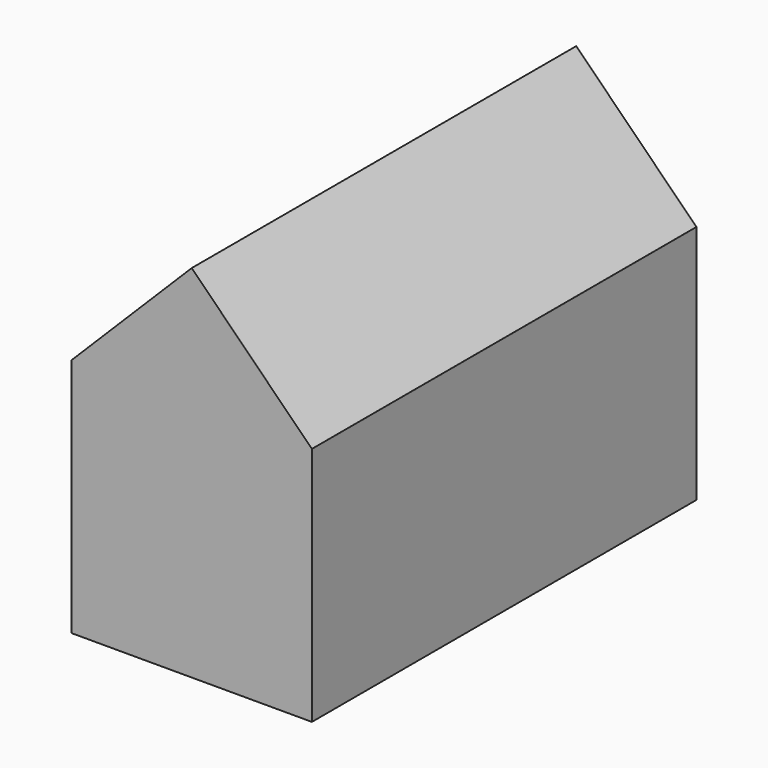
from build123d import *

# Parameters (mm, degrees)
BOX_W                  = 10
BOX_H                  = 20
BOX_DEPTH              = 10
BOX001_W               = 7.07
BOX001_H               = 20
BOX001_DEPTH           = 7.07
BOX001_PLACEMENT_ANGLE = 45


with BuildPart() as cub:
    # Box → Box (new body)
    with BuildSketch(Plane.XY):
        with Locations((5, 10)):
            Rectangle(BOX_W, BOX_H)
    extrude(amount=BOX_DEPTH)


with BuildPart() as fusion:
    # Box001 → Box001 (new body)
    with BuildSketch(Plane.XY):
        with Locations((3.535, 10)):
            Rectangle(BOX001_W, BOX001_H)
    extrude(amount=BOX001_DEPTH)


with BuildPart() as fusion_1:
    # Box001 placement: moved
    add(fusion.part.moved(Location((0, 0, 10))).rotate(Axis((0, 0, 10), (0, 1, 0)), BOX001_PLACEMENT_ANGLE))

    # Fusion: union Cub
    add(cub.part)


solid = fusion_1.part
